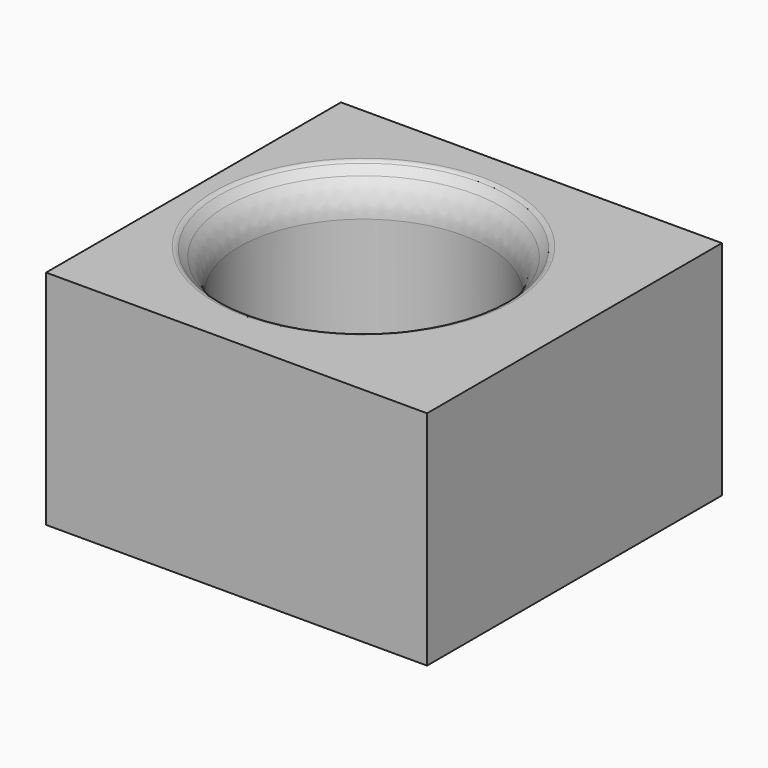
from build123d import *

# Parameters (mm, degrees)
F0_W     = 43.5587465763
F0_H     = 42.1372503042
F0_R     = 14.2222248189
F1_DEPTH = 25.4
F2_SIZE  = 2.54
F3_R     = 0.762
F4_R     = 5.08


with BuildPart() as f1:
    # F0 (on Top) → F1 (new body)
    with BuildSketch(Plane.XY):
        with Locations((21.7793732882, 21.0686251521)):
            Rectangle(F0_W, F0_H)
        with Locations((18.9871452749, 21.6270685196)):
            Circle(F0_R, mode=Mode.SUBTRACT)
    extrude(amount=F1_DEPTH)

    # F2
    f2_edges = [f1.edges().sort_by_distance(p)[0] for p in [
        (4.76492, 21.627069, 25.4),
    ]]
    chamfer(f2_edges, length=F2_SIZE)

    # F3
    f3_edges = [f1.edges().sort_by_distance(p)[0] for p in [
        (2.22492, 21.627069, 25.4),
    ]]
    fillet(f3_edges, radius=F3_R)

    # F4
    f4_edges = [f1.edges().sort_by_distance(p)[0] for p in [
        (4.76492, 21.627069, 22.86),
    ]]
    fillet(f4_edges, radius=F4_R)


solid = f1.part
